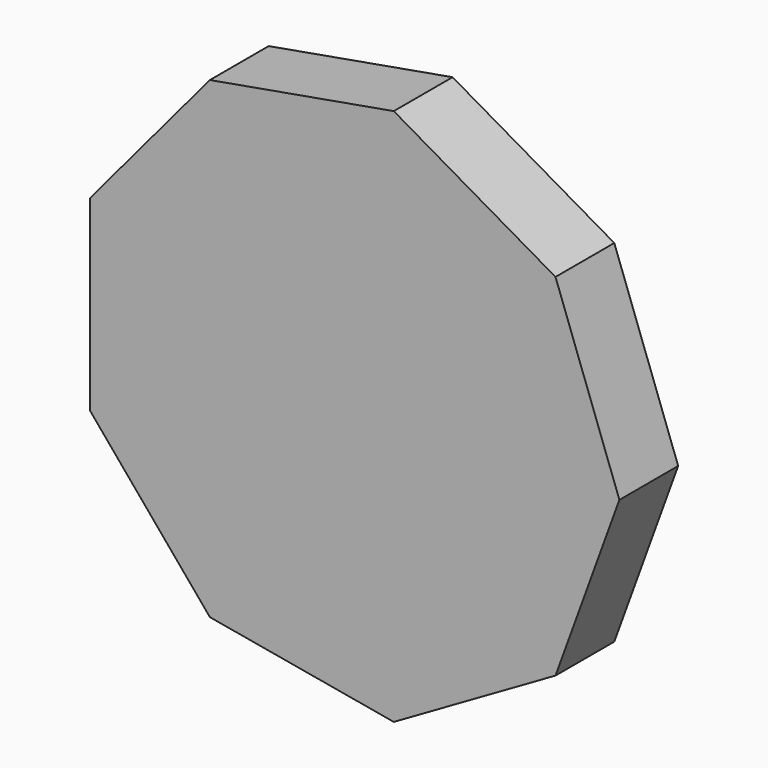
from build123d import *

# Parameters (mm, degrees)
F1_DEPTH = 25.4
F2_SIZE2 = 5.08
F2_SIZE  = 5.08
F3_SIZE  = 5.08
F4_T     = -2.54


with BuildPart() as f1:
    # F0 (on Front) → F1 (new body)
    with BuildSketch(Plane.XZ):
        Polygon((57.8261877927, -48.5219328492), (75.4867270589, 0), (57.8261877927, 48.5219328492), (13.1081325918, 74.3399140571), (-37.7433635294, 65.3734232815), (-70.9343203845, 25.8179812079), (-70.9343203845, -25.8179812079), (-37.7433635294, -65.3734232815), (13.1081325918, -74.3399140571), align=None)
    extrude(amount=F1_DEPTH)

    # F2
    f2_edges = [f1.edges().sort_by_distance(p)[0] for p in [
        (66.656457, 0, -24.260966),
        (66.656457, 0, 24.260966),
        (35.46716, 0, 61.430923),
        (-12.317615, 0, 69.856669),
        (-54.338842, 0, 45.595702),
        (-70.93432, 0, 0),
        (-54.338842, 0, -45.595702),
        (-12.317615, 0, -69.856669),
        (35.46716, 0, -61.430923),
    ]]
    chamfer(f2_edges, length=F2_SIZE, length2=F2_SIZE2)

    # F3
    f3_edges = [f1.edges().sort_by_distance(p)[0] for p in [
        (61.882819, 0, -22.523504),
        (32.92716, 0, -57.031514),
        (61.882819, 0, 22.523504),
        (-11.435483, 0, -64.853845),
        (32.92716, 0, 57.031514),
        (-50.447336, 0, -42.330341),
        (-11.435483, 0, 64.853845),
        (-65.85432, 0, 0),
        (-50.447336, 0, 42.330341),
    ]]
    chamfer(f3_edges, length=F3_SIZE)

    # F4
    f4_openings = [f1.faces().sort_by_distance(p)[0] for p in [
        (0, 0, 0),
    ]]
    offset(amount=F4_T, openings=f4_openings, kind=Kind.INTERSECTION)


solid = f1.part
